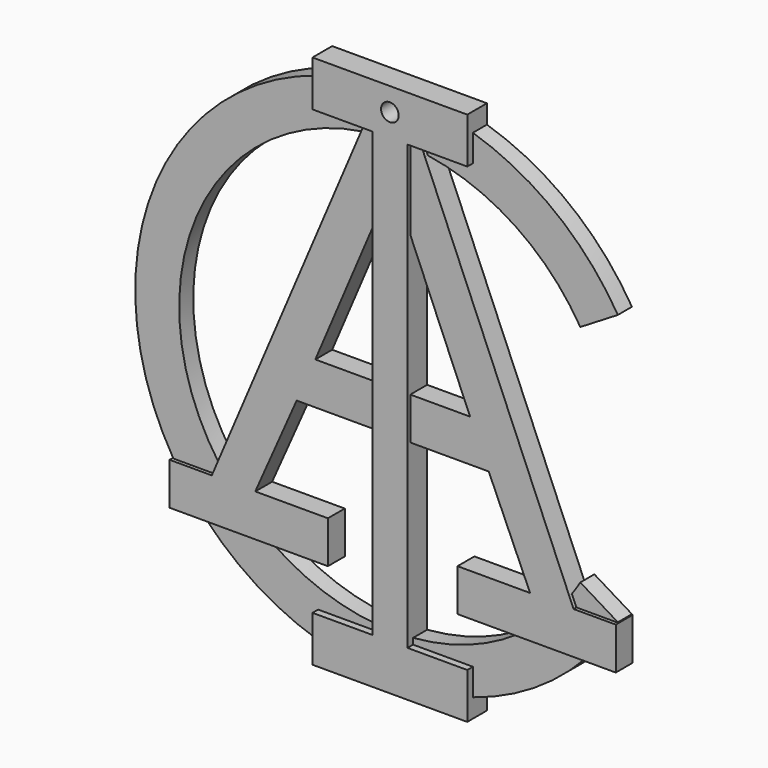
from build123d import *

# Parameters (mm, degrees)
F0_R     = 2.5
F1_DEPTH = 7
F2_DEPTH = 6
F3_DEPTH = 5


with BuildPart() as f1:
    # F0 (on Front) → F1 (new body)
    with BuildSketch(Plane.XZ):
        Polygon((-22, -76), (0, -76), (22, -76), (22, -70.6540869306), (22, -63), (5, -63), (5, -61.2964109879), (5, -11.9999500107), (5, 0), (5, 40), (5, 63), (8.2548681714, 63), (22, 63), (22, 70.6540869306), (22, 76), (0, 76), (-22, 76), (-22, 70.6540869306), (-22, 63), (-8.2548681714, 63), (-5, 63), (-5, 40), (-5, 0), (-5, -11.9999500107), (-5, -61.2964109879), (-5, -63), (-22, -63), (-22, -70.6540869306), align=None)
        with Locations((0, 69.456204772)):
            Circle(F0_R, mode=Mode.SUBTRACT)
    extrude(amount=F1_DEPTH)

    # F0 (on Front) → F2 (join)
    with BuildSketch(Plane.XZ):
        Polygon((34.9798961949, -50.5831677754), (54.0124350294, -50.5831677754), (63.4277144759, -50.5831677754), (63.4277144759, -38.5831677754), (63.1453811804, -38.5831677754), (51.4277144759, -38.5831677754), (50.1556774178, -35.5901394035), (34.9998075814, 0.0707307999), (9.185549765, 60.8101609562), (8.2548681714, 63), (5, 63), (5, 40), (22, 0), (5, 0), (5, -11.9999500107), (27.307384864, -11.9999500107), (39.0647144759, -38.5831677754), (18.4277144759, -38.5831677754), (18.4277144759, -50.5831677754), align=None)
        Polygon((-63.4277144759, -50.5831677754), (-54.0124350294, -50.5831677754), (-34.9798961949, -50.5831677754), (-18.4277144759, -50.5831677754), (-18.4277144759, -38.5831677754), (-39.0647144759, -38.5831677754), (-27.307384864, -11.9999500107), (-5, -11.9999500107), (-5, 0), (-22, 0), (-5, 40), (-5, 63), (-8.2548681714, 63), (-9.185549765, 60.8101609562), (-34.9998075814, 0.0707307999), (-50.1556774178, -35.5901394035), (-51.4277144759, -38.5831677754), (-63.1453811804, -38.5831677754), (-63.4277144759, -38.5831677754), align=None)
    extrude(amount=F2_DEPTH)

    # F0 (on Front) → F3 (join)
    with BuildSketch(Plane.XZ):
        with BuildLine():
            Line((22, 63), (8.2548681714, 63))
            Line((8.2548681714, 63), (9.185549765, 60.8101609562))
            ThreePointArc((9.185549765, 60.8101609562), (34.068237255, 51.2016133568), (52.542409199, 31.9616212912))
            Line((52.542409199, 31.9616212912), (63.2217606622, 38.4578857813))
            ThreePointArc((63.2217606622, 38.4578857813), (45.5503673388, 58.3194996146), (22, 70.6540869306))
            Line((22, 70.6540869306), (22, 63))
        make_face()
        with BuildLine():
            ThreePointArc((-22, 70.6540869306), (-69.2504760851, 26.0839330237), (-63.1453811804, -38.5831677754))
            Line((-63.1453811804, -38.5831677754), (-51.4277144759, -38.5831677754))
            Line((-51.4277144759, -38.5831677754), (-50.1556774178, -35.5901394035))
            ThreePointArc((-50.1556774178, -35.5901394035), (-56.6003514852, 24.0551493812), (-9.185549765, 60.8101609562))
            Line((-9.185549765, 60.8101609562), (-8.2548681714, 63))
            Line((-8.2548681714, 63), (-22, 63))
            Line((-22, 63), (-22, 70.6540869306))
        make_face()
        with BuildLine():
            ThreePointArc((-54.0124350294, -50.5831677754), (-39.3088160431, -62.6962278075), (-22, -70.6540869306))
            Line((-22, -70.6540869306), (-22, -63))
            Line((-22, -63), (-5, -63))
            Line((-5, -63), (-5, -61.2964109879))
            ThreePointArc((-5, -61.2964109879), (-20.6952028251, -57.9133713406), (-34.9798961949, -50.5831677754))
            Line((-34.9798961949, -50.5831677754), (-54.0124350294, -50.5831677754))
        make_face()
        with BuildLine():
            Line((22, -63), (22, -70.6540869306))
            ThreePointArc((22, -70.6540869306), (39.3088160431, -62.6962278075), (54.0124350294, -50.5831677754))
            Line((54.0124350294, -50.5831677754), (34.9798961949, -50.5831677754))
            ThreePointArc((34.9798961949, -50.5831677754), (20.6952028251, -57.9133713406), (5, -61.2964109879))
            Line((5, -61.2964109879), (5, -63))
            Line((5, -63), (22, -63))
        make_face()
        with BuildLine():
            Line((51.4277144759, -38.5831677754), (63.1453811804, -38.5831677754))
            ThreePointArc((63.1453811804, -38.5831677754), (63.1836019728, -38.5205457093), (63.2217606622, -38.4578857813))
            Line((63.2217606622, -38.4578857813), (52.542409199, -31.9616212912))
            ThreePointArc((52.542409199, -31.9616212912), (51.3810839182, -33.7969557118), (50.1556774178, -35.5901394035))
            Line((50.1556774178, -35.5901394035), (51.4277144759, -38.5831677754))
        make_face()
    extrude(amount=F3_DEPTH)


solid = f1.part
